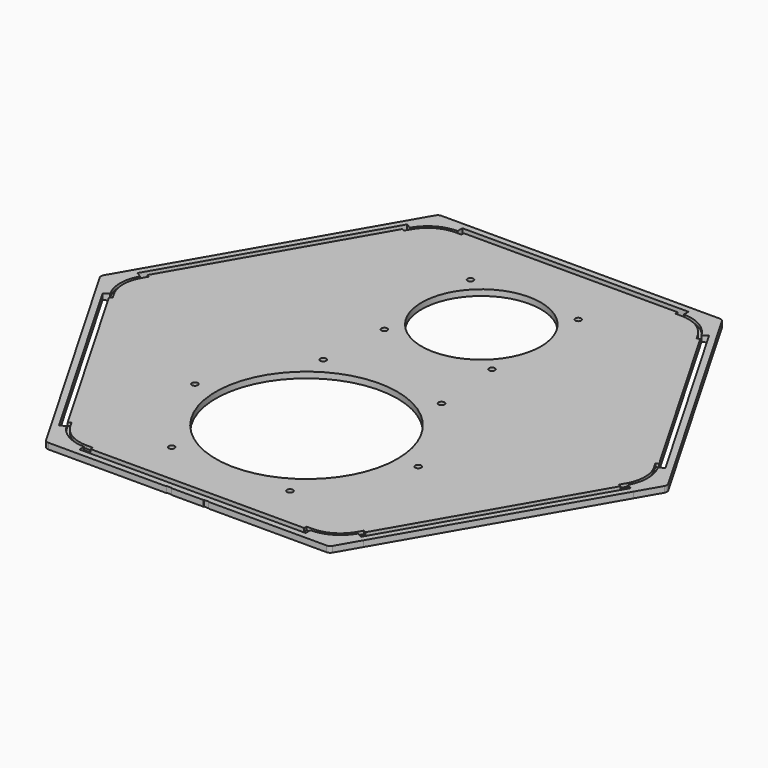
from build123d import *

# Parameters (mm, degrees)
F1_DEPTH  = 3.048
F2_R      = 30.5
F2_R_2    = 46.5
F2_R_3    = 1.524
F3_DEPTH  = 25.4
F4_W      = 115.7319251503
F4_H      = 3.048
F5_DEPTH  = 3.049
F7_W      = 2.54
F7_H      = 0.254
F8_DEPTH  = 3.049
F10_DEPTH = 3.048
F11_W     = 3.175
F11_H     = 1.524
F12_DEPTH = 1.5875


with BuildPart() as f1:
    # F0 (on Top) → F1 (new body)
    with BuildSketch(Plane.XY):
        with BuildLine():
            Line((-79.9225977639, 113.03), (-137.8481502717, 12.7))
            ThreePointArc((-137.8481502717, 12.7), (-141.2511050156, 0), (-137.8481502717, -12.7))
            Line((-137.8481502717, -12.7), (-79.9225977639, -113.03))
            ThreePointArc((-79.9225977639, -113.03), (-70.6255525078, -122.3270452561), (-57.9255525078, -125.73))
            Line((-57.9255525078, -125.73), (57.9255525078, -125.73))
            ThreePointArc((57.9255525078, -125.73), (70.6255525078, -122.3270452561), (79.9225977639, -113.03))
            Line((79.9225977639, -113.03), (137.8481502717, -12.7))
            ThreePointArc((137.8481502717, -12.7), (141.2511050156, 0), (137.8481502717, 12.7))
            Line((137.8481502717, 12.7), (79.9225977639, 113.03))
            ThreePointArc((79.9225977639, 113.03), (70.6255525078, 122.3270452561), (57.9255525078, 125.73))
            Line((57.9255525078, 125.73), (-57.9255525078, 125.73))
            ThreePointArc((-57.9255525078, 125.73), (-70.6255525078, 122.3270452561), (-79.9225977639, 113.03))
        make_face()
    extrude(amount=F1_DEPTH)

    # F2 (on face) → F3 (cut)
    with BuildSketch(Plane.XY.offset(3.048)):
        with Locations((0, 62.23)):
            Circle(F2_R)
        with Locations((0, -49.53)):
            Circle(F2_R_2)
        with Locations((57.15, -49.53)):
            Circle(F2_R_3)
        with Locations((30.2848859509, -1.0640513047)):
            Circle(F2_R_3)
        with Locations((30.2848859509, -97.9959486953)):
            Circle(F2_R_3)
        with Locations((-30.2848859509, -1.0640513047)):
            Circle(F2_R_3)
        with Locations((-30.2848859509, -97.9959486953)):
            Circle(F2_R_3)
        with Locations((-57.15, -49.53)):
            Circle(F2_R_3)
        with Locations((-27.559, 89.789)):
            Circle(F2_R_3)
        with Locations((-27.559, 34.671)):
            Circle(F2_R_3)
        with Locations((27.559, 34.671)):
            Circle(F2_R_3)
        with Locations((27.559, 89.789)):
            Circle(F2_R_3)
    extrude(amount=-F3_DEPTH, mode=Mode.SUBTRACT)

    # F4 (on face) → F5 (cut, through all)
    with BuildSketch(Plane.XY.offset(3.048)):
        Polygon((-135.0389296821, -11.215712791), (-77.1729671069, -111.4425), (-74.5333216761, -109.9185), (-132.3992842513, -9.6917127909), align=None)
        Polygon((-77.2325570395, 111.339287209), (-135.0985196147, 11.1125), (-132.4588741839, 9.5885), (-74.5929116088, 109.8152872091), align=None)
        with Locations((-0.0595899326, 121.031)):
            Rectangle(F4_W, F4_H)
        Polygon((135.0389296821, 11.215712791), (77.1729671069, 111.4425), (74.5333216761, 109.9185), (132.3992842513, 9.691712791), align=None)
        Polygon((77.2325570395, -111.339287209), (135.0985196147, -11.1125), (132.4588741839, -9.5885), (74.5929116088, -109.815287209), align=None)
        with Locations((0.0595899326, -121.031)):
            Rectangle(F4_W, F4_H)
    extrude(amount=-F5_DEPTH, mode=Mode.SUBTRACT)

    # F7 (on face) → F8 (cut, through all)
    with BuildSketch(Plane.XY.offset(3.048)):
        with Locations((-9.525, -125.603)):
            Rectangle(F7_W, F7_H)
        with Locations((9.5845899326, -125.603)):
            Rectangle(F7_W, F7_H)
    extrude(amount=-F8_DEPTH, mode=Mode.SUBTRACT)

    # F9 (on face) → F10 (join)
    with BuildSketch(Plane.XY.offset(3.048)):
        with BuildLine():
            Line((-73.3234841871, 124.46), (-79.9225977639, 113.03))
            Line((-79.9225977639, 113.03), (-57.9255525078, 125.73))
            Line((-57.9255525078, 125.73), (-71.1237796615, 125.73))
            ThreePointArc((-71.1237796615, 125.73), (-72.3937796615, 125.3897045256), (-73.3234841871, 124.46))
        make_face()
        with BuildLine():
            ThreePointArc((-137.8481502717, -12.7), (-141.2511050156, 0), (-137.8481502717, 12.7))
            Line((-137.8481502717, 12.7), (-144.4472638486, 1.27))
            ThreePointArc((-144.4472638486, 1.27), (-144.7875593229, 0), (-144.4472638486, -1.27))
            Line((-144.4472638486, -1.27), (-137.8481502717, -12.7))
        make_face()
        with BuildLine():
            ThreePointArc((-57.9255525078, -125.73), (-70.6255525078, -122.3270452561), (-79.9225977639, -113.03))
            Line((-79.9225977639, -113.03), (-73.3234841871, -124.46))
            ThreePointArc((-73.3234841871, -124.46), (-72.3937796615, -125.3897045256), (-71.1237796615, -125.73))
            Line((-71.1237796615, -125.73), (-57.9255525078, -125.73))
        make_face()
        with BuildLine():
            Line((73.3234841871, -124.46), (79.9225977639, -113.03))
            ThreePointArc((79.9225977639, -113.03), (70.6255525078, -122.3270452561), (57.9255525078, -125.73))
            Line((57.9255525078, -125.73), (71.1237796615, -125.73))
            ThreePointArc((71.1237796615, -125.73), (72.3937796615, -125.3897045256), (73.3234841871, -124.46))
        make_face()
        with BuildLine():
            Line((144.4472638486, 1.27), (137.8481502717, 12.7))
            ThreePointArc((137.8481502717, 12.7), (141.2511050156, 0), (137.8481502717, -12.7))
            Line((137.8481502717, -12.7), (144.4472638486, -1.27))
            ThreePointArc((144.4472638486, -1.27), (144.7875593229, 0), (144.4472638486, 1.27))
        make_face()
        with BuildLine():
            Line((71.1237796615, 125.73), (57.9255525078, 125.73))
            ThreePointArc((57.9255525078, 125.73), (70.6255525078, 122.3270452561), (79.9225977639, 113.03))
            Line((79.9225977639, 113.03), (73.3234841871, 124.46))
            ThreePointArc((73.3234841871, 124.46), (72.3937796615, 125.3897045256), (71.1237796615, 125.73))
        make_face()
    extrude(amount=-F10_DEPTH)

    # F11 (on face) → F12 (cut)
    with BuildSketch(Plane.XY.offset(3.048)):
        with BuildLine():
            Line((-57.9255525078, 117.983), (-57.9255525078, 119.507))
            ThreePointArc((-57.9255525078, 119.507), (-67.5657049473, 116.9079552121), (-74.5929116088, 109.8152872091))
            Line((-74.5929116088, 109.8152872091), (-73.2684038811, 109.0614601206))
            ThreePointArc((-73.2684038811, 109.0614601206), (-66.7996293906, 115.5904939256), (-57.9255525078, 117.983))
        make_face()
        with Locations((-56.3380525078, 118.745)):
            Rectangle(F11_W, F11_H)
        Polygon((-73.2684038811, 109.0614601206), (-74.5929116088, 109.8152872091), (-76.1804116088, 107.065656552), (-74.8388469782, 106.3021217395), align=None)
        with BuildLine():
            Line((73.2182344036, 109.1483562046), (74.5333216761, 109.9185))
            ThreePointArc((74.5333216761, 109.9185), (67.446525082, 116.9398894425), (57.8063726425, 119.507))
            Line((57.8063726425, 119.507), (57.8063726425, 117.983))
            ThreePointArc((57.8063726425, 117.983), (66.6886079177, 115.6177179059), (73.2182344036, 109.1483562046))
        make_face()
        Polygon((76.1208216761, 107.168869343), (74.5333216761, 109.9185), (73.2182344036, 109.1483562046), (74.801024176, 106.406883901), align=None)
        with Locations((56.2188726425, 118.745)):
            Rectangle(F11_W, F11_H)
        with BuildLine():
            Line((-131.1390514686, 8.8265), (-132.4588741839, 9.5885))
            ThreePointArc((-132.4588741839, 9.5885), (-135.0281115918, -0.0596393029), (-132.3992842513, -9.6917127909))
            Line((-132.3992842513, -9.6917127909), (-131.0841969788, -8.9215689955))
            ThreePointArc((-131.0841969788, -8.9215689955), (-133.5041188708, -0.0549290528), (-131.1390514686, 8.8265))
        make_face()
        Polygon((-130.8713741839, 12.338130657), (-132.4588741839, 9.5885), (-131.1390514686, 8.8265), (-129.563948664, 11.5940256944), align=None)
        Polygon((-131.0841969788, -8.9215689955), (-132.3992842513, -9.6917127909), (-130.8117842513, -12.4413434479), (-129.4919867512, -11.679358006), align=None)
        with BuildLine():
            Line((-73.2134989608, -109.1565), (-74.5333216761, -109.9185))
            ThreePointArc((-74.5333216761, -109.9185), (-67.4624066445, -116.9675945149), (-57.8063726425, -119.507))
            Line((-57.8063726425, -119.507), (-57.8157930976, -117.983029116))
            ThreePointArc((-57.8157930976, -117.983029116), (-66.7044894803, -115.6454229784), (-73.2134989608, -109.1565))
        make_face()
        Polygon((-76.1208216761, -107.1688693429), (-74.5333216761, -109.9185), (-73.2134989608, -109.1565), (-74.8009989608, -106.4068693429), align=None)
        Polygon((-57.8157930976, -117.983029116), (-57.8063726425, -119.507), (-54.6313726425, -119.507), (-54.6313726425, -117.983029116), align=None)
        with BuildLine():
            Line((57.9161320527, -117.983029116), (57.9255525078, -119.507))
            ThreePointArc((57.9255525078, -119.507), (67.5496524319, -116.8803488392), (74.5929116088, -109.815287209))
            Line((74.5929116088, -109.815287209), (73.2730888934, -109.053287209))
            ThreePointArc((73.2730888934, -109.053287209), (66.7835768752, -115.5628875527), (57.9161320527, -117.983029116))
        make_face()
        Polygon((54.7505525078, -119.507), (57.9255525078, -119.507), (57.9161320527, -117.983029116), (54.7505525078, -117.983029116), align=None)
        Polygon((73.2730888934, -109.053287209), (74.5929116088, -109.815287209), (76.1804116088, -107.065656552), (74.8605888934, -106.303656552), align=None)
        with BuildLine():
            Line((131.1343664563, -8.8346729115), (132.4588741839, -9.5885))
            ThreePointArc((132.4588741839, -9.5885), (134.9961775139, 0.0595406033), (132.3992842513, 9.691712791))
            Line((132.3992842513, 9.691712791), (131.0794615359, 8.929712791))
            ThreePointArc((131.0794615359, 8.929712791), (133.4721847929, 0.0548303532), (131.1343664563, -8.8346729115))
        make_face()
        Polygon((130.8713741839, -12.338130657), (132.4588741839, -9.5885), (131.1343664563, -8.8346729115), (129.5515766838, -11.576145215), align=None)
        Polygon((131.0794615359, 8.929712791), (132.3992842513, 9.691712791), (130.8117842513, 12.441343448), (129.4919615359, 11.679343448), align=None)
    extrude(amount=-F12_DEPTH, mode=Mode.SUBTRACT)


solid = f1.part
